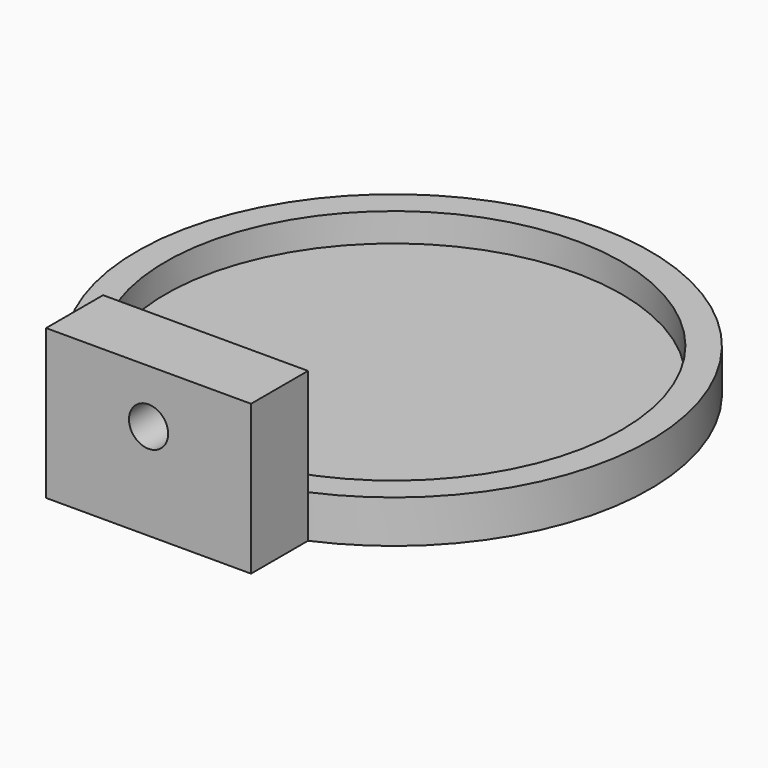
from build123d import *

# Parameters (mm, degrees)
PAD_DEPTH        = 2
SKETCH001_R      = 32
PAD001_DEPTH     = 4
SKETCH002_W      = 28.77499
SKETCH002_H      = 10
PAD002_DEPTH     = 15
HOLE_D           = 5.5
HOLE_DEPTH       = 25
HOLE_CBORE_D     = 10.1
HOLE_CBORE_DEPTH = 4.1


with BuildPart() as part:
    # Sketch → Pad (new body)
    with BuildSketch(Plane.XY):
        with BuildLine():
            ThreePointArc((14.387495, -33), (0, 36), (-14.387495, -33))
            Line((-14.387495, -33), (-14.387495, -43))
            Line((-14.387495, -43), (14.387495, -43))
            Line((14.387495, -43), (14.387495, -33))
        make_face()
    extrude(amount=PAD_DEPTH)

    # Sketch001 (on Face6 of Pad) → Pad001 (join)
    with BuildSketch(Plane.XY.offset(2)):
        with BuildLine():
            ThreePointArc((14.387495, -33), (0, 36), (-14.387495, -33))
            Line((-14.387495, -33), (-14.387495, -43))
            Line((-14.387495, -43), (14.387495, -43))
            Line((14.387495, -43), (14.387495, -33))
        make_face()
        Circle(SKETCH001_R, mode=Mode.SUBTRACT)
    extrude(amount=PAD001_DEPTH)

    # Sketch002 (on Face9 of Pad001) → Pad002 (join)
    with BuildSketch(Plane.XY.offset(6)):
        with Locations((0, -38)):
            Rectangle(SKETCH002_W, SKETCH002_H)
    extrude(amount=PAD002_DEPTH)

    # Hole
    with Locations(Plane(origin=(0, -33, 0), x_dir=(-1, 0, 0), z_dir=(0, 1, 0))):
        with Locations((0, 13.5)):
            CounterBoreHole(HOLE_D / 2, HOLE_CBORE_D / 2, HOLE_CBORE_DEPTH, depth=HOLE_DEPTH)


solid = part.part
